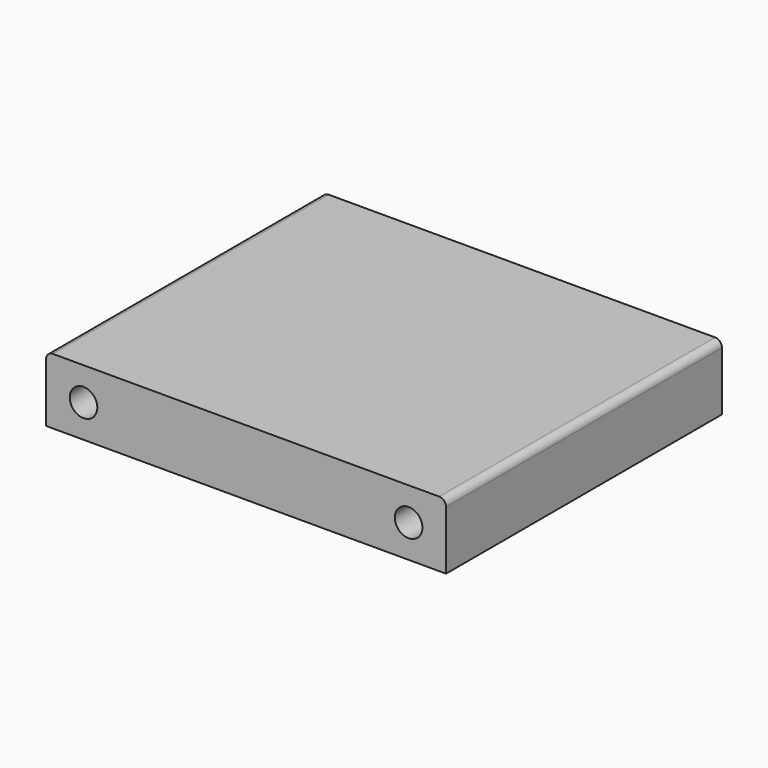
from build123d import *

# Parameters (mm, degrees)
SKETCH_W  = 58
SKETCH_H  = 9.52
SKETCH_R  = 2
PAD_DEPTH = 50
FILLET_R  = 1


with BuildPart() as part:
    # Sketch → Pad (new body)
    with BuildSketch(Plane.XZ):
        Rectangle(SKETCH_W, SKETCH_H)
        with Locations((-23.57, 0)):
            Circle(SKETCH_R, mode=Mode.SUBTRACT)
        with Locations((23.57, 0)):
            Circle(SKETCH_R, mode=Mode.SUBTRACT)
    extrude(amount=PAD_DEPTH)

    # Fillet
    fillet_edges = [part.edges().sort_by_distance(p)[0] for p in [
        (29, -25, 4.76),
        (-29, -25, 4.76),
    ]]
    fillet(fillet_edges, radius=FILLET_R)


solid = part.part
